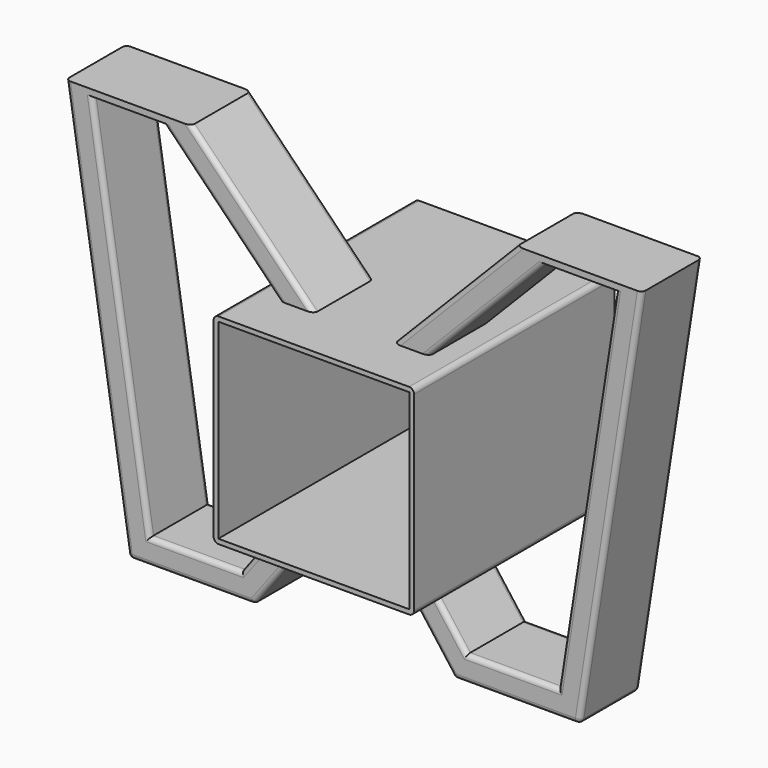
from build123d import *

# Parameters (mm, degrees)
F1_DEPTH      = 76.2
F0_W          = 193.675
F0_H          = 193.675
F2_DEPTH      = 50.8
F2_DEPTH_BACK = 203.2
F3_R          = 5.08
F4_R          = 4.7625


with BuildPart() as f1:
    # F0 (on Front) → F1 (new body)
    with BuildSketch(Plane.XZ):
        Polygon((-165.1, 406.4), (-200.664219, 406.4), (-194.441008, 400.05), (-76.2, 279.4), (-40.635781, 279.4), align=None)
        Polygon((-200.664219, 406.4), (-266.391811, 406.4), (-265.399624, 400.05), (-194.441008, 400.05), align=None)
        Polygon((-292.1, 406.4), (-228.6, 0), (-101.6, 0), (-44.45, 76.2), (-76.2, 76.2), (-114.3, 25.4), (-206.860561, 25.4), (-265.399624, 400.05), (-266.391811, 406.4), align=None)
        Polygon((165.1, 406.4), (40.635781, 279.4), (76.2, 279.4), (194.441008, 400.05), (200.664219, 406.4), align=None)
        Polygon((76.2, 76.2), (44.45, 76.2), (101.6, 0), (228.6, 0), (292.1, 406.4), (266.391811, 406.4), (265.399624, 400.05), (206.860561, 25.4), (114.3, 25.4), align=None)
        Polygon((265.399624, 400.05), (266.391811, 406.4), (200.664219, 406.4), (194.441008, 400.05), align=None)
    extrude(amount=-F1_DEPTH)

    # F4
    f4_edges = [f1.edges().sort_by_distance(p)[0] for p in [
        (-102.867891, 76.2, 342.9),
        (-102.867891, 0, 342.9),
        (-135.320504, 0, 339.725),
        (-236.130092, 0, 212.725),
        (-260.35, 0, 203.2),
        (-236.130092, 76.2, 212.725),
        (-160.580281, 0, 25.4),
        (-165.1, 0, 0),
        (102.867891, 0, 342.9),
        (102.867891, 76.2, 342.9),
        (135.320504, 0, 339.725),
        (236.130092, 0, 212.725),
        (260.35, 0, 203.2),
        (260.35, 76.2, 203.2),
        (95.25, 0, 50.8),
        (73.025, 0, 38.1),
        (95.25, 76.2, 50.8),
        (160.580281, 76.2, 25.4),
        (160.580281, 0, 25.4),
        (165.1, 0, 0),
        (228.6, 38.1, 0),
        (-228.6, 38.1, 0),
        (-260.35, 76.2, 203.2),
        (-165.1, 76.2, 0),
        (-160.580281, 76.2, 25.4),
        (-95.25, 0, 50.8),
        (-95.25, 76.2, 50.8),
        (-73.025, 76.2, 38.1),
        (165.1, 76.2, 0),
        (236.130092, 76.2, 212.725),
        (135.320504, 76.2, 339.725),
        (-135.320504, 76.2, 339.725),
        (73.025, 76.2, 38.1),
        (101.6, 38.1, 0),
        (-73.025, 0, 38.1),
        (-101.6, 38.1, 0),
    ]]
    fillet(f4_edges, radius=F4_R)


with BuildPart() as f2:
    # F0 (on Front) → F2 (new body, two sides)
    with BuildSketch(Plane.XZ) as f2_sk:
        Polygon((-76.2, 76.2), (-44.45, 76.2), (44.45, 76.2), (76.2, 76.2), (101.6, 76.2), (101.6, 279.4), (76.2, 279.4), (40.635781, 279.4), (-40.635781, 279.4), (-76.2, 279.4), (-101.6, 279.4), (-101.6, 76.2), align=None)
        with Locations((0, 177.8)):
            Rectangle(F0_W, F0_H, mode=Mode.SUBTRACT)
    extrude(amount=F2_DEPTH)
    extrude(f2_sk.sketch, amount=-F2_DEPTH_BACK)

    # F3
    f3_edges = [f2.edges().sort_by_distance(p)[0] for p in [
        (-101.6, 76.2, 279.4),
        (101.6, 76.2, 279.4),
        (101.6, 76.2, 76.2),
        (-101.6, 76.2, 76.2),
    ]]
    fillet(f3_edges, radius=F3_R)


solid = Compound([f1.part, f2.part])
